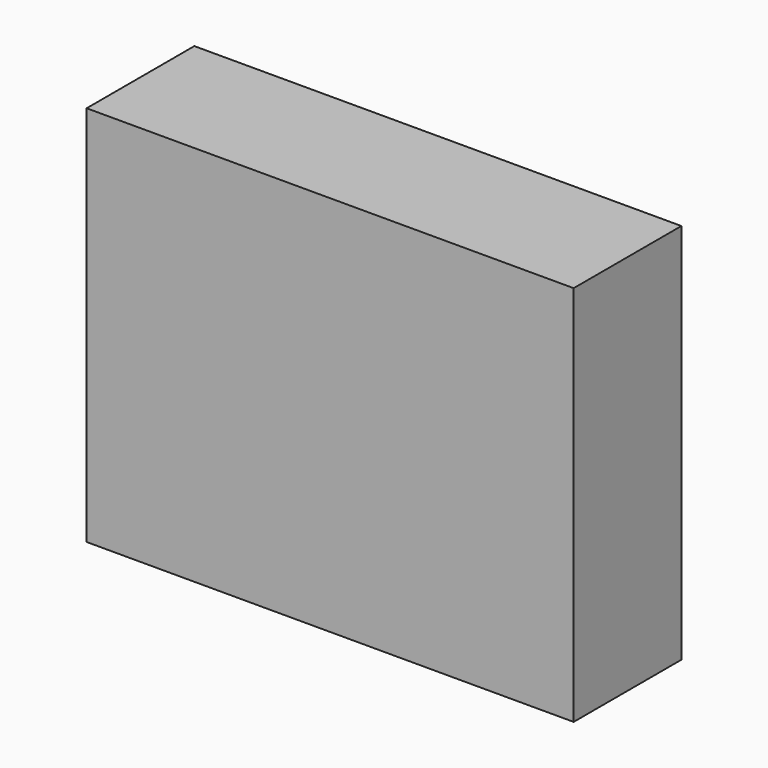
from build123d import *

# Parameters (mm, degrees)
F1_DEPTH = 25.4


with BuildPart() as f1:
    # F0 (on Front) → F1 (new body)
    with BuildSketch(Plane.XZ):
        with BuildLine():
            Line((45.4848445952, 36.6320833564), (-46.400628984, 36.6320833564))
            Line((-46.400628984, 36.6320833564), (-46.400628984, -35.4110114276))
            Line((-46.400628984, -35.4110114276), (-4.2846268379, -35.4110114276))
            ThreePointArc((-4.2846268379, -35.4110114276), (-23.6587001944, 26.6938881128), (35.6692831084, 0))
            ThreePointArc((35.6692831084, 0), (26.6938881128, -23.6587001944), (4.2846268379, -35.4110114276))
            Line((4.2846268379, -35.4110114276), (45.4848445952, -35.4110114276))
            Line((45.4848445952, -35.4110114276), (45.4848445952, 36.6320833564))
        make_face()
        with BuildLine():
            ThreePointArc((35.6692831084, 0), (-23.6587001944, 26.6938881128), (-4.2846268379, -35.4110114276))
            Line((-4.2846268379, -35.4110114276), (4.2846268379, -35.4110114276))
            ThreePointArc((4.2846268379, -35.4110114276), (26.6938881128, -23.6587001944), (35.6692831084, 0))
        make_face()
    extrude(amount=F1_DEPTH)


solid = f1.part
